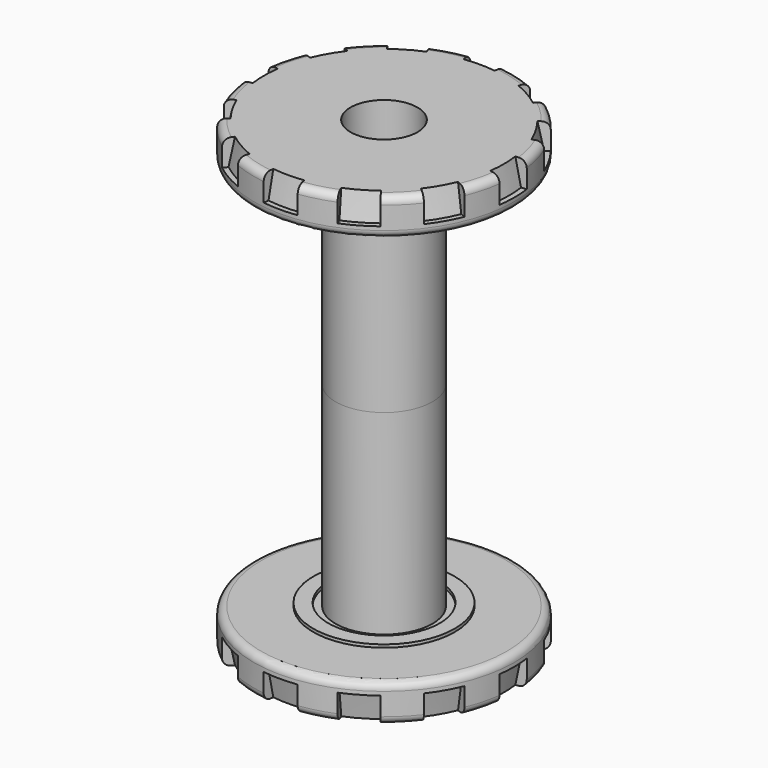
from build123d import *

# Parameters (mm, degrees)
F4_DEPTH       = 25
F6_R           = 1
F6_2_R         = 1
F7_ANGLE_BACK  = 7.5
F7_ANGLE       = 15
F8_COUNT       = 12
F10_ANGLE_BACK = 7.5
F10_ANGLE      = 15
F11_COUNT      = 12
F12_W          = 2
F12_H          = 1.5


with BuildPart() as f1:
    # F0 (on Front) → F1 (revolve)
    with BuildSketch(Plane.XZ):
        Polygon((4.5, 20.75), (4.5, 0), (17.5, 0), (17.5, 5), (6.5, 5), (6.5, 31.25), (4.5, 31.25), align=None)
        Polygon((2, 23.25), (4.5, 20.75), (4.5, 31.25), (4.3, 31.25), (4.3, 37.05), (2, 37.05), align=None)
    revolve(axis=Axis((0, 0, -22.6495880634), (0, 0, -1)))

    # F3 (on face) → F4 (cut)
    with BuildSketch(Plane(origin=(0, 0, 0), x_dir=(1, 0, 0), z_dir=(0, 0, -1))):
        with BuildLine():
            Line((3.4058688457, 2.9410979932), (0.8441311543, 4.420117939))
            ThreePointArc((0.8441311543, 4.420117939), (0, 4.5), (-0.8441311543, 4.420117939))
            Line((-0.8441311543, 4.420117939), (-3.4058688457, 2.9410979932))
            ThreePointArc((-3.4058688457, 2.9410979932), (-3.897114317, 2.25), (-4.25, 1.4790199458))
            Line((-4.25, 1.4790199458), (-4.25, -1.4790199458))
            ThreePointArc((-4.25, -1.4790199458), (-3.897114317, -2.25), (-3.4058688457, -2.9410979932))
            Line((-3.4058688457, -2.9410979932), (-0.8441311543, -4.420117939))
            ThreePointArc((-0.8441311543, -4.420117939), (0, -4.5), (0.8441311543, -4.420117939))
            Line((0.8441311543, -4.420117939), (3.4058688457, -2.9410979932))
            ThreePointArc((3.4058688457, -2.9410979932), (3.897114317, -2.25), (4.25, -1.4790199458))
            Line((4.25, -1.4790199458), (4.25, 1.4790199458))
            ThreePointArc((4.25, 1.4790199458), (3.897114317, 2.25), (3.4058688457, 2.9410979932))
        make_face()
        with BuildLine():
            ThreePointArc((-4.25, 1.4790199458), (-3.897114317, 2.25), (-3.4058688457, 2.9410979932))
            Line((-3.4058688457, 2.9410979932), (-4.25, 2.4537386441))
            Line((-4.25, 2.4537386441), (-4.25, 1.4790199458))
        make_face()
        with BuildLine():
            Line((0.8441311543, 4.420117939), (0, 4.9074772881))
            Line((0, 4.9074772881), (-0.8441311543, 4.420117939))
            ThreePointArc((-0.8441311543, 4.420117939), (0, 4.5), (0.8441311543, 4.420117939))
        make_face()
        with BuildLine():
            Line((4.25, 2.4537386441), (3.4058688457, 2.9410979932))
            ThreePointArc((3.4058688457, 2.9410979932), (3.897114317, 2.25), (4.25, 1.4790199458))
            Line((4.25, 1.4790199458), (4.25, 2.4537386441))
        make_face()
        with BuildLine():
            Line((4.25, -2.4537386441), (4.25, -1.4790199458))
            ThreePointArc((4.25, -1.4790199458), (3.897114317, -2.25), (3.4058688457, -2.9410979932))
            Line((3.4058688457, -2.9410979932), (4.25, -2.4537386441))
        make_face()
        with BuildLine():
            Line((0, -4.9074772881), (0.8441311543, -4.420117939))
            ThreePointArc((0.8441311543, -4.420117939), (0, -4.5), (-0.8441311543, -4.420117939))
            Line((-0.8441311543, -4.420117939), (0, -4.9074772881))
        make_face()
        with BuildLine():
            ThreePointArc((-3.4058688457, -2.9410979932), (-3.897114317, -2.25), (-4.25, -1.4790199458))
            Line((-4.25, -1.4790199458), (-4.25, -2.4537386441))
            Line((-4.25, -2.4537386441), (-3.4058688457, -2.9410979932))
        make_face()
    extrude(amount=-F4_DEPTH, mode=Mode.SUBTRACT)

    # F6#2
    f6_2_edges = [f1.edges().sort_by_distance(p)[0] for p in [
        (-17.5, 0, 0),
        (-17.5, 0, 5),
    ]]
    fillet(f6_2_edges, radius=F6_2_R)

    # F11: F10 ×12 about axis
    f11_axis = Axis((0, 0, -12.2857932001), (0, 0, -1))


with BuildPart() as f2:
    # F0 (on Front) → F2 (revolve)
    with BuildSketch(Plane.XZ):
        Polygon((4.5, 37.25), (4.5, 31.25), (6.5, 31.25), (6.5, 57.5), (17.5, 57.5), (17.5, 62.5), (4.5, 62.5), (4.5, 47.75), align=None)
        Polygon((4.3, 37.25), (4.5, 37.25), (4.5, 47.75), (2, 45.25), (2, 37.25), align=None)
    revolve(axis=Axis((0, 0, -22.6495880634), (0, 0, -1)))

    # F6
    f6_edges = [f2.edges().sort_by_distance(p)[0] for p in [
        (-17.5, 0, 62.5),
        (-17.5, 0, 57.5),
    ]]
    fillet(f6_edges, radius=F6_R)

    # F8: F7 ×12 about axis
    f8_axis = Axis((0, 0, -22.6495880634), (0, 0, -1))


with BuildPart() as f7:
    # F5 (on Front) → F7 (revolve)
    with BuildSketch(Plane.XZ, mode=Mode.PRIVATE) as f7_sk:
        Polygon((17.5, 62.5), (16.1, 62.5), (16.8, 59), (17.5, 59), align=None)
    revolve(f7_sk.sketch.rotate(Axis((0, 0, -12.2857932001), (0, 0, 1)), -F7_ANGLE_BACK), axis=Axis((0, 0, -12.2857932001), (0, 0, 1)), revolution_arc=F7_ANGLE)


with BuildPart() as f2_1:
    add(f2.part)
    for i in range(1, F8_COUNT):
        add(f7.part.rotate(f8_axis, i * 360 / F8_COUNT), mode=Mode.SUBTRACT)

    # F8#seed: cut F7
    add(f7.part, mode=Mode.SUBTRACT)

    # F12 (on Front) → F13 (revolve)
    with BuildSketch(Plane.XZ):
        with Locations((8.5, 57.85)):
            Rectangle(F12_W, F12_H)
    revolve(axis=Axis((0, 0, 5.5304253474), (0, 0, 1)))


with BuildPart() as f10:
    # F9 (on Front) → F10 (revolve)
    with BuildSketch(Plane.XZ, mode=Mode.PRIVATE) as f10_sk:
        Polygon((16.1, 0), (17.5, 0), (17.5, 3.5), (16.8, 3.5), align=None)
    revolve(f10_sk.sketch.rotate(Axis((0, 0, -12.2857932001), (0, 0, -1)), -F10_ANGLE_BACK), axis=Axis((0, 0, -12.2857932001), (0, 0, -1)), revolution_arc=F10_ANGLE)


with BuildPart() as f1_1:
    add(f1.part)
    for i in range(1, F11_COUNT):
        add(f10.part.rotate(f11_axis, i * 360 / F11_COUNT), mode=Mode.SUBTRACT)

    # F11#seed: cut F10
    add(f10.part, mode=Mode.SUBTRACT)

    # F12 (on Front) → F14 (revolve)
    with BuildSketch(Plane.XZ):
        with Locations((8.5, 4.65)):
            Rectangle(F12_W, F12_H)
    revolve(axis=Axis((0, 0, -12.2857932001), (0, 0, -1)))


solid = Compound([f2_1.part, f1_1.part])
